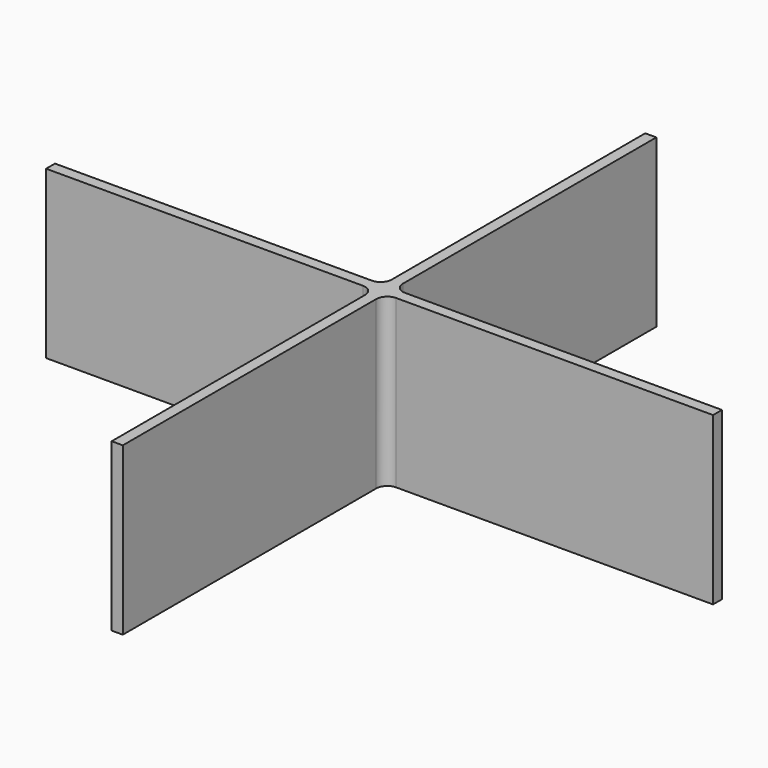
from build123d import *

# Parameters (mm, degrees)
F0_W     = 149.86
F0_H     = 5.08
F0_W_2   = 2.54
F1_DEPTH = 76.2
F2_R     = 5.08


with BuildPart() as f1:
    # F0 (on Top) → F1 (new body)
    with BuildSketch(Plane.XY):
        with Locations((74.93, -2.54)):
            Rectangle(F0_W, F0_H)
        Polygon((149.86, 149.86), (149.86, 0), (152.4, 0), (154.94, 0), (154.94, 149.86), align=None)
        with Locations((229.87, -2.54)):
            Rectangle(F0_W, F0_H)
        with Locations((151.13, -2.54)):
            Rectangle(F0_W_2, F0_H)
        with Locations((153.67, -2.54)):
            Rectangle(F0_W_2, F0_H)
        Polygon((152.4, -5.08), (149.86, -5.08), (149.86, -154.94), (154.94, -154.94), (154.94, -5.08), align=None)
    extrude(amount=F1_DEPTH)

    # F2
    f2_edges = [f1.edges().sort_by_distance(p)[0] for p in [
        (149.86, -5.08, 38.1),
        (154.94, -5.08, 38.1),
        (154.94, 0, 38.1),
        (149.86, 0, 38.1),
    ]]
    fillet(f2_edges, radius=F2_R)


solid = f1.part
